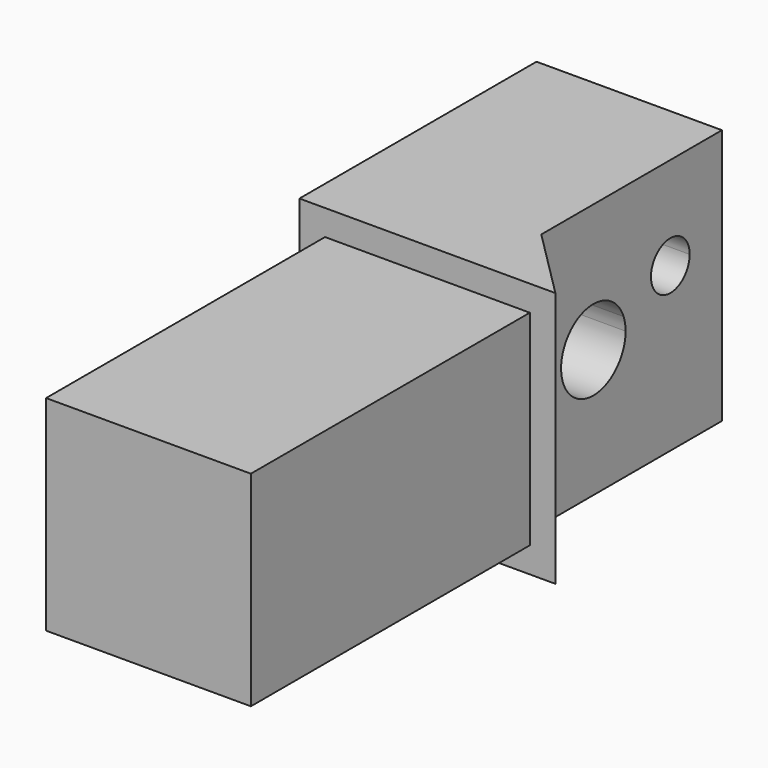
from build123d import *

# Parameters (mm, degrees)
F0_W     = 31.75
F0_H     = 80
F1_DEPTH = 31.75
F3_DEPTH = 31.751
F4_W     = 25.4
F4_H     = 10
F4_W_2   = 3.175
F4_H_2   = 43.2458060166
F5_DEPTH = 31.751
F6_W     = 47.7026679298
F6_H     = 12.140064659
F6_H_2   = 10.4135097936
F7_DEPTH = 31.751
F9_DEPTH = 31.751


with BuildPart() as f1:
    # F0 (on Top) → F1 (new body)
    with BuildSketch(Plane.XY):
        Rectangle(F0_W, F0_H)
    extrude(amount=F1_DEPTH)

    # F2 (on face) → F3 (cut, through all)
    with BuildSketch(Plane.YZ.offset(15.875)):
        with BuildLine():
            Line((20.065903716, 15.875), (25.065903716, 15.875))
            ThreePointArc((25.065903716, 15.875), (24.9899424811, 16.7432408883), (24.7643668199, 17.5851007166))
            Line((24.7643668199, 17.5851007166), (20.065903716, 15.875))
        make_face()
        with BuildLine():
            ThreePointArc((35, 20.2186558202), (31.479055467, 23.1730790793), (29.1809221376, 19.1925953903))
            ThreePointArc((29.1809221376, 19.1925953903), (32.520944533, 17.2642325612), (35, 20.2186558202))
        make_face()
        with BuildLine():
            ThreePointArc((24.7643668199, 17.5851007166), (15.141864951, 15.0067591117), (25.065903716, 15.875))
            Line((25.065903716, 15.875), (20.065903716, 15.875))
            Line((20.065903716, 15.875), (24.7643668199, 17.5851007166))
        make_face()
    extrude(amount=-F3_DEPTH, mode=Mode.SUBTRACT)

    # F4 (on face) → F5 (cut, through all)
    with BuildSketch(Plane.XY.offset(31.75)):
        with Locations((0, -45)):
            Rectangle(F4_W, F4_H)
        with Locations((14.2875, -18.3770969917)):
            Rectangle(F4_W_2, F4_H_2)
        with Locations((-14.2875, -18.3770969917)):
            Rectangle(F4_W_2, F4_H_2)
    extrude(amount=-F5_DEPTH, mode=Mode.SUBTRACT)

    # F6 (on face) → F7 (cut, through all)
    with BuildSketch(Plane.YZ.offset(15.875)):
        with Locations((-20.6055279483, 34.6450323295)):
            Rectangle(F6_W, F6_H)
        with Locations((-20.6055279483, -2.0317548968)):
            Rectangle(F6_W, F6_H_2)
    extrude(amount=-F7_DEPTH, mode=Mode.SUBTRACT)

    # F8 (on face) → F9 (cut, through all)
    with BuildSketch(Plane.XY.offset(31.75)):
        Polygon((15.875, 3.2458060166), (15.875, 40), (7.125, 40), (7.125, 11.9958060166), align=None)
    extrude(amount=-F9_DEPTH, mode=Mode.SUBTRACT)


solid = f1.part
